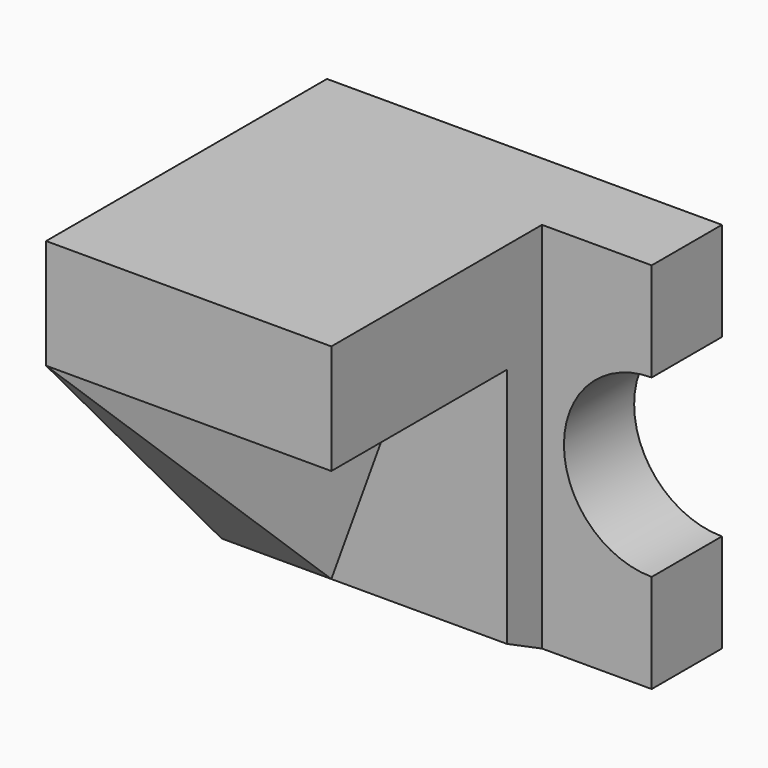
from build123d import *

# Parameters (mm, degrees)
F0_W     = 90
F0_H     = 85
F1_DEPTH = 20
F3_DEPTH = 25
F6_DEPTH = 65


with BuildPart() as f1:
    # F0 (on Front) → F1 (new body)
    with BuildSketch(Plane.XZ):
        Rectangle(F0_W, F0_H)
    extrude(amount=F1_DEPTH)

    # F2 (on Front) → F3 (cut)
    with BuildSketch(Plane.XZ):
        with BuildLine():
            Line((45, -20), (45, 20))
            ThreePointArc((45, 20), (25, 0), (45, -20))
        make_face()
    extrude(amount=F3_DEPTH, mode=Mode.SUBTRACT)

    # F5 (on offset) → F6 (join)
    with BuildSketch(Plane.YZ.offset(20)):
        Polygon((-20, 20), (-20, 42.5), (-80, 42.5), (-80, 17.5), (-30, 17.5), (-30, -37.5), (-20, -42.5), (-20, -20), align=None)
    extrude(amount=-F6_DEPTH)

    # F8 (on face) → F10 section 0
    with BuildSketch(Plane.XZ.offset(30), mode=Mode.PRIVATE) as f10_s0:
        Polygon((-45, -37.5), (-20, -37.5), (0, 17.5), (-45, 17.5), align=None)
    loft([f10_s0.sketch, Vertex(-45, -80, 17.5)])


solid = f1.part
